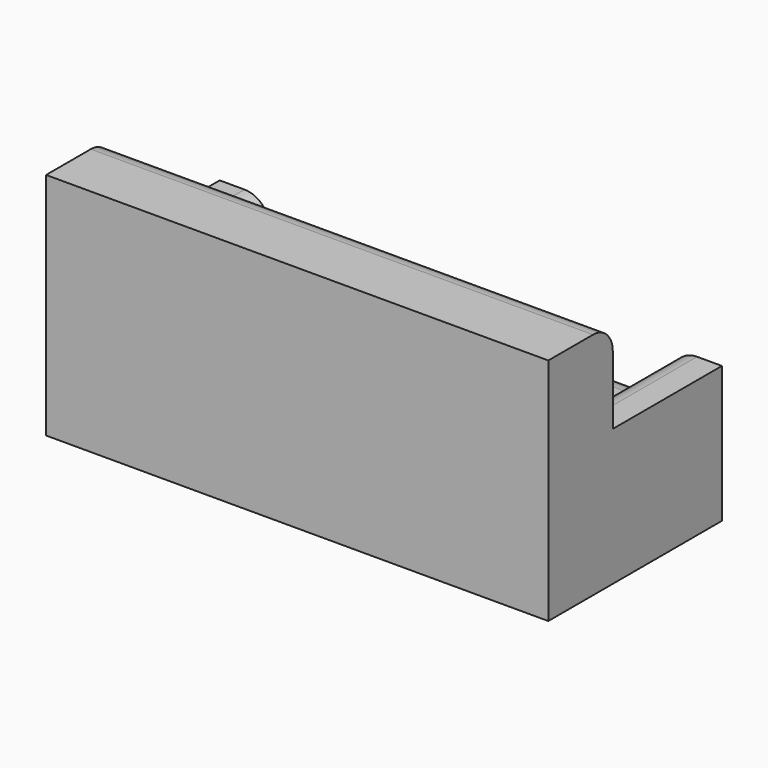
from build123d import *

# Parameters (mm, degrees)
F1_DEPTH = 2057.4
F2_W     = 1651
F2_H     = 558.8
F3_DEPTH = 152.4
F4_R     = 101.6


with BuildPart() as f1:
    # F0 (on Right) → F1 (new body)
    with BuildSketch(Plane.YZ):
        Polygon((0, 939.8), (0, 0), (889, 0), (889, 558.8), (330.2, 558.8), (330.2, 939.8), align=None)
    extrude(amount=-F1_DEPTH)

    # F2 (on face) → F3 (cut)
    with BuildSketch(Plane.XY.offset(558.8)):
        with Locations((-1028.7, 609.6)):
            Rectangle(F2_W, F2_H)
    extrude(amount=-F3_DEPTH, mode=Mode.SUBTRACT)

    # F4
    f4_edges = [f1.edges().sort_by_distance(p)[0] for p in [
        (-1028.7, 889, 406.4),
        (-1028.7, 330.2, 939.8),
        (-203.2, 609.6, 558.8),
        (-1854.2, 609.6, 558.8),
    ]]
    fillet(f4_edges, radius=F4_R)


solid = f1.part
